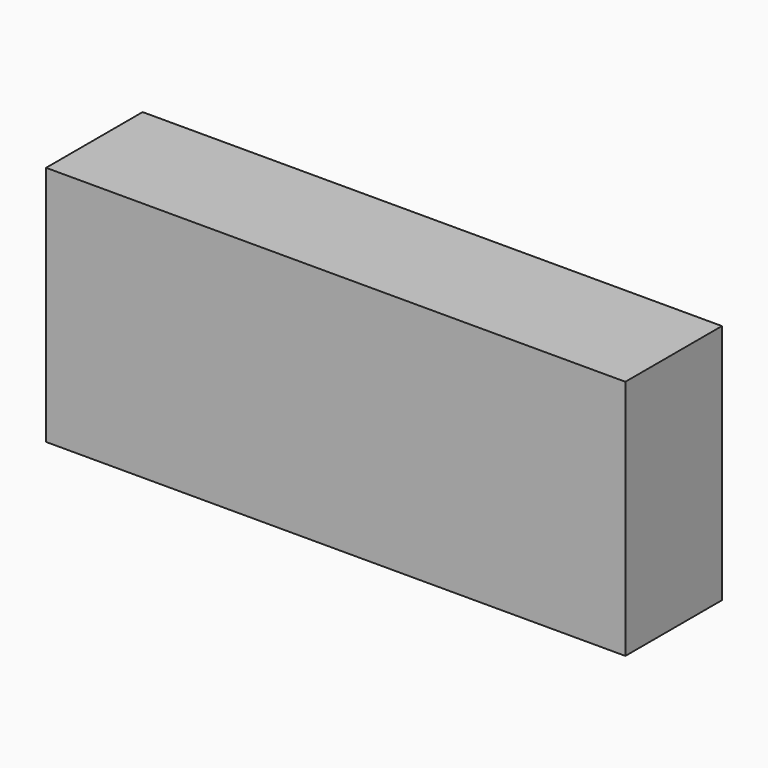
from build123d import *

# Parameters (mm, degrees)
SKETCH_W      = 120
SKETCH_H      = 25
EXTRUDE_DEPTH = 50


with BuildPart() as part:
    # Sketch → Extrude (new body)
    with BuildSketch(Plane.XY):
        Rectangle(SKETCH_W, SKETCH_H)
    extrude(amount=EXTRUDE_DEPTH)


solid = part.part
